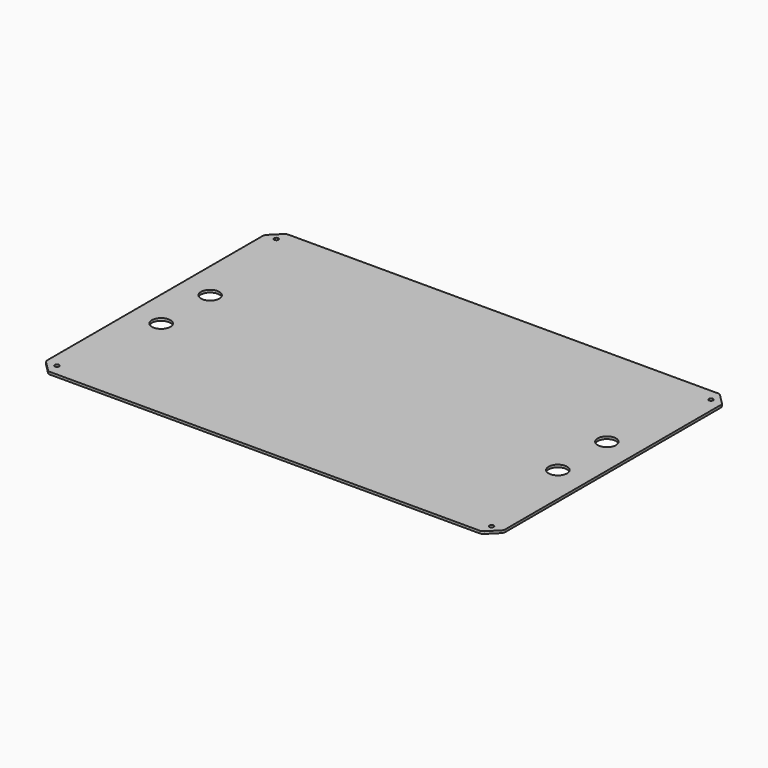
from build123d import *

# Parameters (mm, degrees)
SKETCH_W     = 374
SKETCH_H     = 243
SKETCH_R     = 1.75
SKETCH_R_2   = 7.5
PAD_DEPTH    = 2
CHAMFER_SIZE = 10
FILLET_R     = 4


with BuildPart() as part:
    # Sketch → Pad (new body)
    with BuildSketch(Plane.XY):
        Rectangle(SKETCH_W, SKETCH_H)
        with Locations((-177.5, 112)):
            Circle(SKETCH_R, mode=Mode.SUBTRACT)
        with Locations((-162, 25)):
            Circle(SKETCH_R_2, mode=Mode.SUBTRACT)
        with Locations((-162, -25)):
            Circle(SKETCH_R_2, mode=Mode.SUBTRACT)
        with Locations((162, 25)):
            Circle(SKETCH_R_2, mode=Mode.SUBTRACT)
        with Locations((162, -25)):
            Circle(SKETCH_R_2, mode=Mode.SUBTRACT)
        with Locations((-177.5, -112)):
            Circle(SKETCH_R, mode=Mode.SUBTRACT)
        with Locations((177.5, -112)):
            Circle(SKETCH_R, mode=Mode.SUBTRACT)
        with Locations((177.5, 112)):
            Circle(SKETCH_R, mode=Mode.SUBTRACT)
    extrude(amount=PAD_DEPTH)

    # Chamfer
    chamfer_edges = [part.edges().sort_by_distance(p)[0] for p in [
        (187, -121.5, 1),
        (187, 121.5, 1),
        (-187, 121.5, 1),
        (-187, -121.5, 1),
    ]]
    chamfer(chamfer_edges, length=CHAMFER_SIZE)

    # Fillet
    fillet_edges = [part.edges().sort_by_distance(p)[0] for p in [
        (177, 121.5, 1),
        (187, 111.5, 1),
        (-177, 121.5, 1),
        (-187, 111.5, 1),
        (-177, -121.5, 1),
        (-187, -111.5, 1),
        (177, -121.5, 1),
        (187, -111.5, 1),
    ]]
    fillet(fillet_edges, radius=FILLET_R)


solid = part.part
